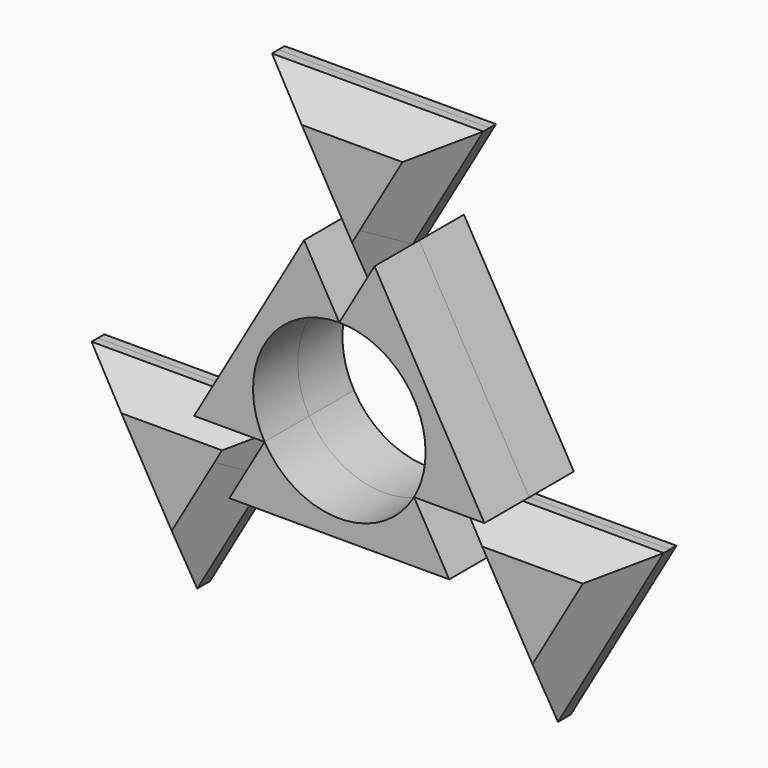
from build123d import *

# Parameters (mm, degrees)
F1_DEPTH  = 6.35
F2_DEPTH  = 8.89
F3_SIZE   = 5.08
F3_2_SIZE = 5.08
F3_3_SIZE = 5.08
F4_SIZE   = 5.08
F5_DEPTH  = 6.35
F6_SIZE   = 5.08
F6_2_SIZE = 5.08
F6_3_SIZE = 5.08
F7_DEPTH  = 8.89


with BuildPart() as f1:
    # F0 (on Front) → F1 (new body)
    with BuildSketch(Plane.XZ):
        Polygon((45.5153971005, -6.864500683), (23.0982416679, -6.864500683), (28.702530526, -16.5714137256), (17.4939528097, -16.5714137256), (28.702530526, -35.9852398108), align=None)
        Polygon((28.702530526, -16.5714137256), (23.0982416679, -6.864500683), (11.8896639515, -6.864500683), align=None)
        Polygon((17.4939528097, -16.5714137256), (28.702530526, -16.5714137256), (11.8896639515, -6.864500683), align=None)
    extrude(amount=F1_DEPTH)

    # F3#2
    f3_2_edges = [f1.edges().sort_by_distance(p)[0] for p in [
        (28.702531, -6.35, -6.864501),
        (20.296097, -6.35, -21.42487),
    ]]
    chamfer(f3_2_edges, length=F3_2_SIZE)

    # F4
    f4_edges = [f1.edges().sort_by_distance(p)[0] for p in [
        (37.108964, -6.35, -21.42487),
    ]]
    chamfer(f4_edges, length=F4_SIZE)


with BuildPart() as f1b:
    # F0 (on Front) → F1, piece 2 (new body)
    with BuildSketch(Plane.XZ):
        Polygon((-28.702530526, -16.5714137256), (-23.0982416679, -6.864500683), (-45.5153971005, -6.864500683), (-28.702530526, -35.9852398108), (-17.4939528097, -16.5714137256), align=None)
        Polygon((-11.8896639515, -6.864500683), (-23.0982416679, -6.864500683), (-28.702530526, -16.5714137256), align=None)
        Polygon((-17.4939528097, -16.5714137256), (-11.8896639515, -6.864500683), (-28.702530526, -16.5714137256), align=None)
    extrude(amount=F1_DEPTH)

    # F3#3
    f3_3_edges = [f1b.edges().sort_by_distance(p)[0] for p in [
        (-20.296097, -6.35, -21.42487),
        (-28.702531, -6.35, -6.864501),
        (-37.108964, -6.35, -21.42487),
    ]]
    chamfer(f3_3_edges, length=F3_3_SIZE)


with BuildPart() as f1c:
    # F0 (on Front) → F1, piece 3 (new body)
    with BuildSketch(Plane.XZ):
        Polygon((5.6042888582, 23.4359144086), (0, 33.1428274512), (0, 13.729001366), align=None)
        Polygon((0, 13.729001366), (0, 33.1428274512), (-5.6042888582, 23.4359144086), align=None)
        Polygon((-5.6042888582, 23.4359144086), (0, 33.1428274512), (5.6042888582, 23.4359144086), (16.8128665745, 42.8497404938), (-16.8128665745, 42.8497404938), align=None)
    extrude(amount=F1_DEPTH)

    # F3
    f3_edges = [f1c.edges().sort_by_distance(p)[0] for p in [
        (-8.406433, -6.35, 28.289371),
        (8.406433, -6.35, 28.289371),
        (0, -6.35, 42.84974),
    ]]
    chamfer(f3_edges, length=F3_SIZE)


with BuildPart() as f2:
    # F0 (on Front) → F2 (new body)
    with BuildSketch(Plane.XZ):
        with BuildLine():
            Line((23.0982416679, -6.864500683), (5.6042888582, 23.4359144086))
            Line((5.6042888582, 23.4359144086), (0, 13.729001366))
            ThreePointArc((0, 13.729001366), (9.7078699648, 9.7078699648), (13.729001366, 0))
            ThreePointArc((13.729001366, 0), (13.2611969886, -3.5533270238), (11.8896639515, -6.864500683))
            Line((11.8896639515, -6.864500683), (23.0982416679, -6.864500683))
        make_face()
    extrude(amount=F2_DEPTH)


with BuildPart() as f2b:
    # F0 (on Front) → F2, piece 2 (new body)
    with BuildSketch(Plane.XZ):
        with BuildLine():
            ThreePointArc((11.8896639515, -6.864500683), (0, -13.729001366), (-11.8896639515, -6.864500683))
            Line((-11.8896639515, -6.864500683), (-17.4939528097, -16.5714137256))
            Line((-17.4939528097, -16.5714137256), (17.4939528097, -16.5714137256))
            Line((17.4939528097, -16.5714137256), (11.8896639515, -6.864500683))
        make_face()
    extrude(amount=F2_DEPTH)


with BuildPart() as f2c:
    # F0 (on Front) → F2, piece 3 (new body)
    with BuildSketch(Plane.XZ):
        with BuildLine():
            Line((0, 13.729001366), (-5.6042888582, 23.4359144086))
            Line((-5.6042888582, 23.4359144086), (-23.0982416679, -6.864500683))
            Line((-23.0982416679, -6.864500683), (-11.8896639515, -6.864500683))
            ThreePointArc((-11.8896639515, -6.864500683), (-11.8896639515, 6.864500683), (0, 13.729001366))
        make_face()
    extrude(amount=F2_DEPTH)


with BuildPart() as f5:
    # F0 (on Front) → F5 (new body)
    with BuildSketch(Plane.XZ):
        Polygon((45.5153971005, -6.864500683), (23.0982416679, -6.864500683), (28.702530526, -16.5714137256), (17.4939528097, -16.5714137256), (28.702530526, -35.9852398108), align=None)
        Polygon((17.4939528097, -16.5714137256), (28.702530526, -16.5714137256), (11.8896639515, -6.864500683), align=None)
        Polygon((28.702530526, -16.5714137256), (23.0982416679, -6.864500683), (11.8896639515, -6.864500683), align=None)
    extrude(amount=-F5_DEPTH)

    # F6
    f6_edges = [f5.edges().sort_by_distance(p)[0] for p in [
        (37.108964, 6.35, -21.42487),
        (28.702531, 6.35, -6.864501),
        (20.296097, 6.35, -21.42487),
    ]]
    chamfer(f6_edges, length=F6_SIZE)


with BuildPart() as f5b:
    # F0 (on Front) → F5, piece 2 (new body)
    with BuildSketch(Plane.XZ):
        Polygon((-28.702530526, -16.5714137256), (-23.0982416679, -6.864500683), (-45.5153971005, -6.864500683), (-28.702530526, -35.9852398108), (-17.4939528097, -16.5714137256), align=None)
        Polygon((-17.4939528097, -16.5714137256), (-11.8896639515, -6.864500683), (-28.702530526, -16.5714137256), align=None)
        Polygon((-11.8896639515, -6.864500683), (-23.0982416679, -6.864500683), (-28.702530526, -16.5714137256), align=None)
    extrude(amount=-F5_DEPTH)

    # F6#2
    f6_2_edges = [f5b.edges().sort_by_distance(p)[0] for p in [
        (-20.296097, 6.35, -21.42487),
        (-37.108964, 6.35, -21.42487),
        (-28.702531, 6.35, -6.864501),
    ]]
    chamfer(f6_2_edges, length=F6_2_SIZE)


with BuildPart() as f5c:
    # F0 (on Front) → F5, piece 3 (new body)
    with BuildSketch(Plane.XZ):
        Polygon((-5.6042888582, 23.4359144086), (0, 33.1428274512), (5.6042888582, 23.4359144086), (16.8128665745, 42.8497404938), (-16.8128665745, 42.8497404938), align=None)
        Polygon((0, 13.729001366), (0, 33.1428274512), (-5.6042888582, 23.4359144086), align=None)
        Polygon((5.6042888582, 23.4359144086), (0, 33.1428274512), (0, 13.729001366), align=None)
    extrude(amount=-F5_DEPTH)

    # F6#3
    f6_3_edges = [f5c.edges().sort_by_distance(p)[0] for p in [
        (-8.406433, 6.35, 28.289371),
        (0, 6.35, 42.84974),
        (8.406433, 6.35, 28.289371),
    ]]
    chamfer(f6_3_edges, length=F6_3_SIZE)


with BuildPart() as f7:
    # F0 (on Front) → F7 (new body)
    with BuildSketch(Plane.XZ):
        with BuildLine():
            Line((0, 13.729001366), (-5.6042888582, 23.4359144086))
            Line((-5.6042888582, 23.4359144086), (-23.0982416679, -6.864500683))
            Line((-23.0982416679, -6.864500683), (-11.8896639515, -6.864500683))
            ThreePointArc((-11.8896639515, -6.864500683), (-11.8896639515, 6.864500683), (0, 13.729001366))
        make_face()
    extrude(amount=-F7_DEPTH)


with BuildPart() as f7b:
    # F0 (on Front) → F7, piece 2 (new body)
    with BuildSketch(Plane.XZ):
        with BuildLine():
            ThreePointArc((11.8896639515, -6.864500683), (0, -13.729001366), (-11.8896639515, -6.864500683))
            Line((-11.8896639515, -6.864500683), (-17.4939528097, -16.5714137256))
            Line((-17.4939528097, -16.5714137256), (17.4939528097, -16.5714137256))
            Line((17.4939528097, -16.5714137256), (11.8896639515, -6.864500683))
        make_face()
    extrude(amount=-F7_DEPTH)


with BuildPart() as f7c:
    # F0 (on Front) → F7, piece 3 (new body)
    with BuildSketch(Plane.XZ):
        with BuildLine():
            Line((23.0982416679, -6.864500683), (5.6042888582, 23.4359144086))
            Line((5.6042888582, 23.4359144086), (0, 13.729001366))
            ThreePointArc((0, 13.729001366), (9.7078699648, 9.7078699648), (13.729001366, 0))
            ThreePointArc((13.729001366, 0), (13.2611969886, -3.5533270238), (11.8896639515, -6.864500683))
            Line((11.8896639515, -6.864500683), (23.0982416679, -6.864500683))
        make_face()
    extrude(amount=-F7_DEPTH)


solid = Compound([f1.part, f1b.part, f1c.part, f2.part, f2b.part, f2c.part, f5.part, f5b.part, f5c.part, f7.part, f7b.part, f7c.part])
